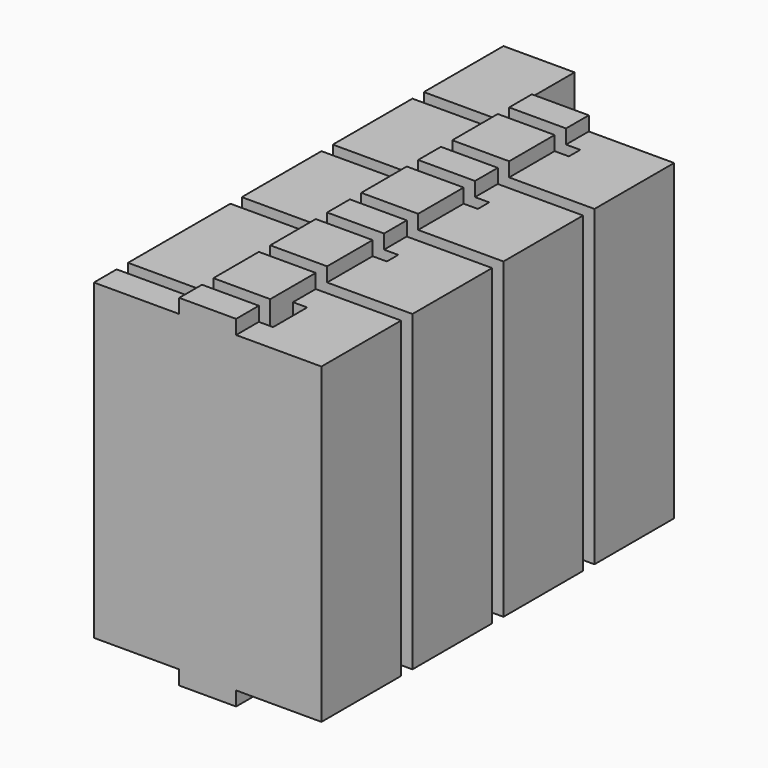
from build123d import *

# Parameters (mm, degrees)
F0_W     = 254
F0_H     = 50.8
F0_W_2   = 279.4
F1_DEPTH = 609.6
F2_W     = 152.4
F2_H     = 25.4
F3_DEPTH = 914.401


with BuildPart() as f1:
    # F0 (on Top) → F1 (new body)
    with BuildSketch(Plane.XY):
        Polygon((127, 0), (0, 0), (0, -177.8), (279.4, -177.8), (279.4, -203.2), (0, -203.2), (0, -381), (279.4, -381), (279.4, -406.4), (0, -406.4), (0, -584.2), (279.4, -584.2), (279.4, -609.6), (0, -609.6), (0, -787.4), (254, -787.4), (279.4, -787.4), (279.4, -863.6), (279.4, -914.4), (406.4, -914.4), (406.4, -736.6), (127, -736.6), (127, -711.2), (406.4, -711.2), (406.4, -533.4), (127, -533.4), (127, -508), (406.4, -508), (406.4, -330.2), (127, -330.2), (127, -304.8), (406.4, -304.8), (406.4, -127), (127, -127), align=None)
        with Locations((127, -812.8)):
            Rectangle(F0_W, F0_H)
        with Locations((139.7, -889)):
            Rectangle(F0_W_2, F0_H)
    extrude(amount=-F1_DEPTH)

    # F2 (on face) → F3 (cut, through all)
    with BuildSketch(Plane.XZ.offset(914.4)):
        with Locations((76.2, -12.7)):
            Rectangle(F2_W, F2_H)
        with Locations((330.2, -12.7)):
            Rectangle(F2_W, F2_H)
        with Locations((76.2, -596.9)):
            Rectangle(F2_W, F2_H)
        with Locations((330.2, -596.9)):
            Rectangle(F2_W, F2_H)
    extrude(amount=-F3_DEPTH, mode=Mode.SUBTRACT)


solid = f1.part
